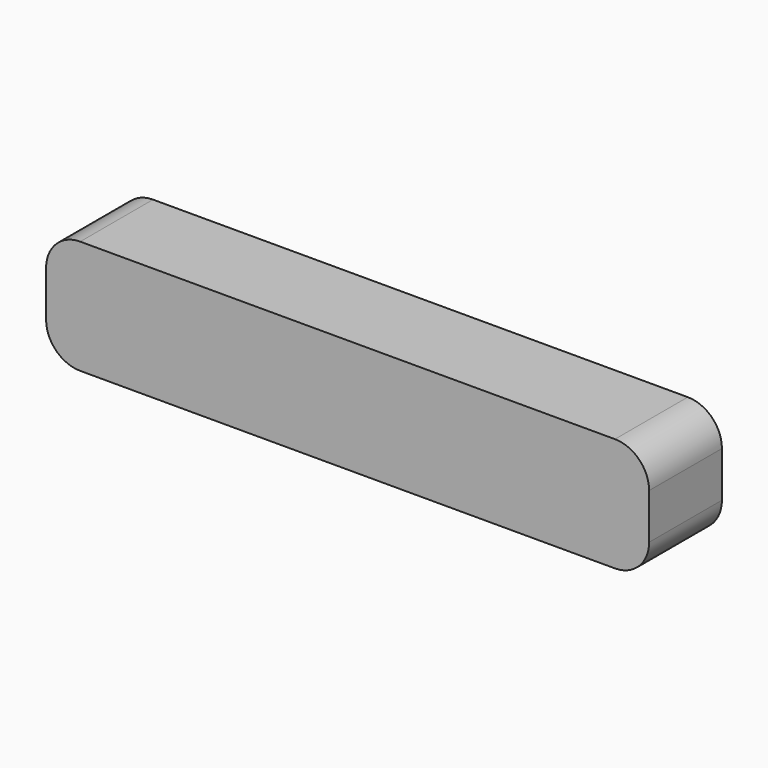
from build123d import *

# Parameters (mm, degrees)
F0_W     = 53
F0_H     = 10
F0_R     = 1.8
F1_DEPTH = 8
F2_R     = 1.8
F3_DEPTH = 5
F4_R     = 3


with BuildPart() as f1:
    # F0 (on Front) → F1 (new body)
    with BuildSketch(Plane.XZ):
        with Locations((-26.5, 5)):
            Rectangle(F0_W, F0_H)
        with Locations((-48.5, 5)):
            Circle(F0_R, mode=Mode.SUBTRACT)
        with Locations((-4.5, 5)):
            Circle(F0_R, mode=Mode.SUBTRACT)
        with Locations((-48.5, 5)):
            Circle(F0_R)
        with Locations((-4.5, 5)):
            Circle(F0_R)
    extrude(amount=F1_DEPTH)

    # F2 (on face) → F3 (cut)
    with BuildSketch(Plane(origin=(0, 0, 0), x_dir=(-1, 0, 0), z_dir=(0, 1, 0))):
        with Locations((4.5, 5)):
            Circle(F2_R)
        with Locations((48.5, 5)):
            Circle(F2_R)
    extrude(amount=-F3_DEPTH, mode=Mode.SUBTRACT)

    # F4
    f4_edges = [f1.edges().sort_by_distance(p)[0] for p in [
        (0, -4, 10),
        (0, -4, 0),
        (-53, -4, 10),
        (-53, -4, 0),
    ]]
    fillet(f4_edges, radius=F4_R)


solid = f1.part
